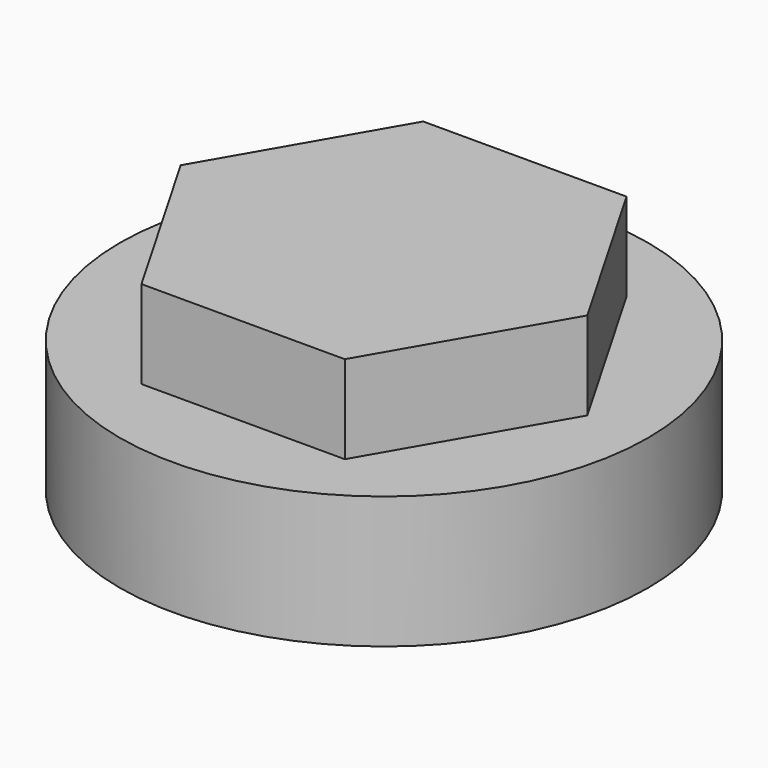
from build123d import *

# Parameters (mm, degrees)
F0_R     = 19.05
F1_DEPTH = 9.525
F3_DEPTH = 6.35


with BuildPart() as f1:
    # F0 (on Top) → F1 (new body)
    with BuildSketch(Plane.XY):
        Circle(F0_R)
    extrude(amount=F1_DEPTH)

    # F2 (on face) → F3 (join)
    with BuildSketch(Plane.XY.offset(9.525)):
        Polygon((-7.332348, -12.7), (7.332348, -12.7), (14.664697, 0), (7.332348, 12.7), (-7.332348, 12.7), (-14.664697, 0), align=None)
    extrude(amount=F3_DEPTH)


solid = f1.part
